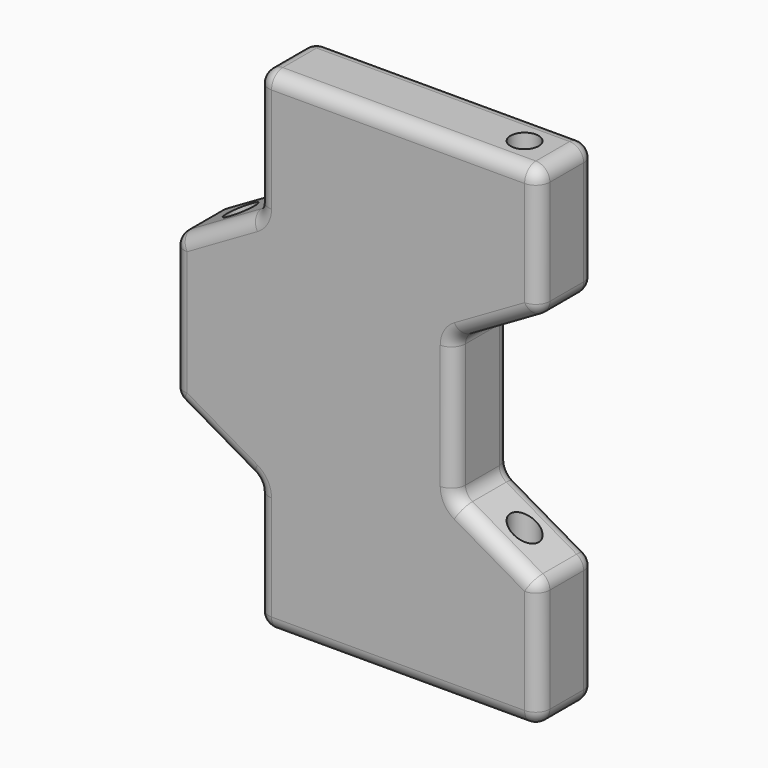
from build123d import *

# Parameters (mm, degrees)
F1_DEPTH = 2.54
F2_R     = 0.508
F3_DEPTH = 25.4
F4_R     = 0.508


with BuildPart() as f1:
    # F0 (on Front) → F1 (new body)
    with BuildSketch(Plane.XZ):
        Polygon((-10.16, 2.54), (-10.16, 0), (-10.16, -2.54), (-7.112, -4.299764), (-7.112, -8.89), (3.048, -8.89), (3.048, -4.299764), (0, -2.54), (0, 0), (0, 2.54), (3.048, 4.299764), (3.048, 8.89), (-7.112, 8.89), (-7.112, 4.299764), align=None)
    extrude(amount=F1_DEPTH)

    # F2 (on face) → F3 (cut)
    with BuildSketch(Plane.XY.offset(8.89)):
        with Locations((1.524, -1.27)):
            Circle(F2_R)
        with Locations((-8.7376, -1.27)):
            Circle(F2_R)
    extrude(amount=-F3_DEPTH, mode=Mode.SUBTRACT)

    # F4
    f4_edges = [f1.edges().sort_by_distance(p)[0] for p in [
        (-10.16, 0, 0),
        (-8.636, 0, -3.419882),
        (-7.112, 0, -6.594882),
        (-2.032, 0, -8.89),
        (3.048, 0, -6.594882),
        (1.524, 0, -3.419882),
        (0, 0, 0),
        (1.524, 0, 3.419882),
        (3.048, 0, 6.594882),
        (-2.032, 0, 8.89),
        (-7.112, 0, 6.594882),
        (-8.636, 0, 3.419882),
        (-10.16, -2.54, 0),
        (-8.636, -2.54, -3.419882),
        (-7.112, -2.54, -6.594882),
        (-2.032, -2.54, -8.89),
        (3.048, -2.54, -6.594882),
        (1.524, -2.54, -3.419882),
        (0, -2.54, 0),
        (1.524, -2.54, 3.419882),
        (3.048, -2.54, 6.594882),
        (-2.032, -2.54, 8.89),
        (-7.112, -2.54, 6.594882),
        (-8.636, -2.54, 3.419882),
        (3.048, -1.27, -8.89),
        (-7.112, -1.27, 8.89),
        (-7.112, -1.27, 4.299764),
        (-10.16, -1.27, 2.54),
        (3.048, -1.27, 8.89),
        (3.048, -1.27, -4.299764),
        (3.048, -1.27, 4.299764),
        (0, -1.27, 2.54),
        (0, -1.27, -2.54),
        (-7.112, -1.27, -8.89),
        (-7.112, -1.27, -4.299764),
        (-10.16, -1.27, -2.54),
    ]]
    fillet(f4_edges, radius=F4_R)


solid = f1.part
